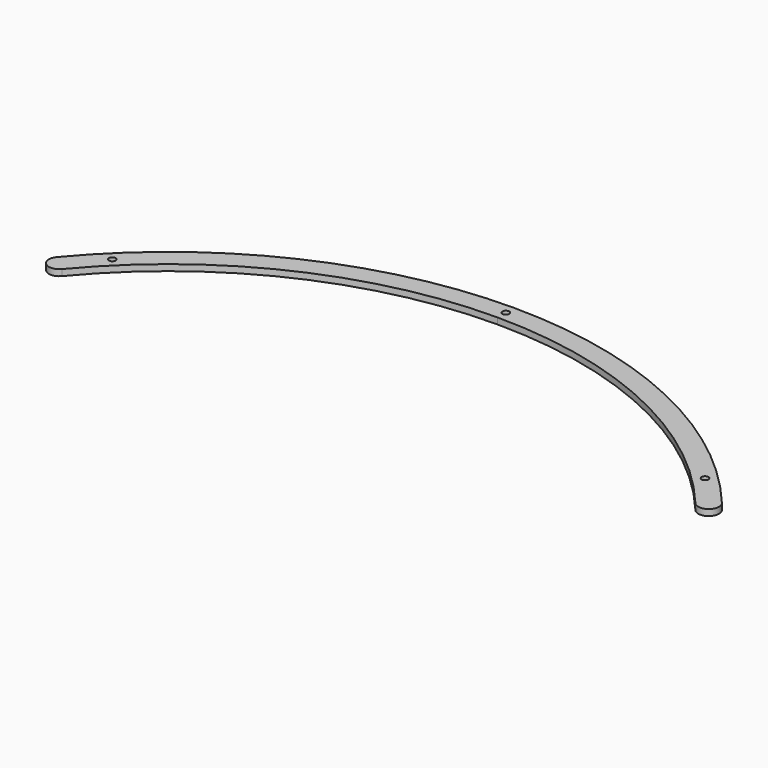
from build123d import *

# Parameters (mm, degrees)
PAD014_DEPTH                        = 3
SKETCH055_R                         = 1.65
POCKET019_DEPTH                     = 364.282338
POCKET019_DEPTH_BACK                = 367.282338
BODY001003005003003_PLACEMENT_ANGLE = 60
CLONE022_PLACEMENT_ANGLE            = 60


with BuildPart() as part:
    # Sketch052 → Pad014 (new body)
    with BuildSketch(Plane.XY):
        with BuildLine():
            ThreePointArc((152.959511, 127.101705), (84.480895, 180.040089), (0, 198.875477))
            Line((0, 198.875477), (0, 208.875477))
            ThreePointArc((160.650731, 133.492724), (88.728824, 189.092995), (0, 208.875477))
            ThreePointArc((152.959511, 127.101705), (160.000631, 126.451604), (160.650731, 133.492724))
        make_face()
    pad014 = extrude(amount=PAD014_DEPTH)

    # Sketch055 → Pocket019 (cut, two sides)
    with BuildSketch(Plane.XY) as pocket019_sk:
        with Locations((143.11, 145.205847)):
            Circle(SKETCH055_R)
        with BuildLine():
            Line((0, 202.225477), (0, 205.525477))
            ThreePointArc((0, 202.225477), (1.65, 203.875477), (0, 205.525477))
        make_face()
    pocket019 = extrude(amount=-POCKET019_DEPTH, mode=Mode.SUBTRACT) + extrude(pocket019_sk.sketch, amount=POCKET019_DEPTH_BACK, mode=Mode.SUBTRACT)

    # Mirrored019: Pad014, Pocket019 across Sketch052 V_Axis
    add(pad014.mirror(Plane(origin=(0, 0, 0), x_dir=(0, 0, 1), z_dir=(1, 0, 0))))
    add(pocket019.mirror(Plane(origin=(0, 0, 0), x_dir=(0, 0, 1), z_dir=(1, 0, 0))), mode=Mode.SUBTRACT)


with BuildPart() as part_1:
    # Body001003005003003 placement: moved
    add(part.part.rotate(Axis((0, 0, 0), (0, 0, 1)), BODY001003005003003_PLACEMENT_ANGLE))


with BuildPart() as part_2:
    # Clone022 placement: moved
    add(part_1.part.moved(Location((0, -32, 0))).rotate(Axis((0, -32, 0), (0, 0, -1)), CLONE022_PLACEMENT_ANGLE))


solid = part_2.part
